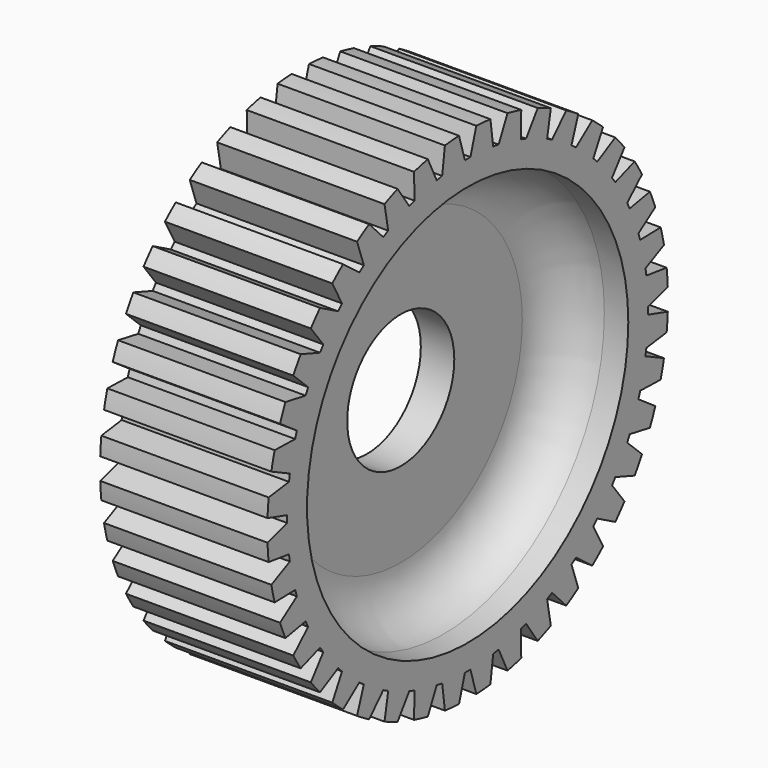
from build123d import *

# Parameters (mm, degrees)
F3_DEPTH = 25.4
F4_COUNT = 40


with BuildPart() as f1:
    # F0 (on Top) → F1 (revolve)
    with BuildSketch(Plane.XY):
        Polygon((-2.54, 15.24), (0, 15.24), (3.2612350769, 15.24), (5.08, 15.24), (5.08, 19.0043579787), (-7.62, 19.0043579787), (-7.62, 15.24), (-5.8012350769, 15.24), align=None)
        with BuildLine():
            ThreePointArc((-5.8012350769, 15.24), (-3.4715579779, 14.0044093291), (-2.54, 11.5373707349))
            Line((-2.54, 11.5373707349), (-2.54, 15.24))
            Line((-2.54, 15.24), (-5.8012350769, 15.24))
        make_face()
        Polygon((-2.54, 5.08), (0, 5.08), (0, 11.5373707349), (0, 15.24), (-2.54, 15.24), (-2.54, 11.5373707349), align=None)
        with BuildLine():
            Line((0, 15.24), (0, 11.5373707349))
            ThreePointArc((0, 11.5373707349), (0.9315579779, 14.0044093291), (3.2612350769, 15.24))
            Line((3.2612350769, 15.24), (0, 15.24))
        make_face()
    revolve(axis=Axis((-6.35, 0, 0), (-1, 0, 0)))

    # F2 (on face) → F3 (cut)
    with BuildSketch(Plane.YZ.offset(5.08)):
        with BuildLine():
            Line((0, 17.1221789894), (0, 19.0043579787))
            ThreePointArc((0, 19.0043579787), (-0.4103514296, 18.9999272074), (-0.8205115163, 18.9866369596))
            Line((-0.8205115163, 18.9866369596), (-0.2629475493, 17.1221789894))
            Line((-0.2629475493, 17.1221789894), (0, 17.1221789894))
        make_face()
        with BuildLine():
            ThreePointArc((0.8205115163, 18.9866369596), (0.4103514296, 18.9999272074), (0, 19.0043579787))
            Line((0, 19.0043579787), (0, 17.1221789894))
            Line((0, 17.1221789894), (0.2629475493, 17.1221789894))
            Line((0.2629475493, 17.1221789894), (0.8205115163, 18.9866369596))
        make_face()
    f3 = extrude(amount=-F3_DEPTH, mode=Mode.SUBTRACT)

    # F4: F3 ×40 about axis
    f4_axis = Axis((0, 0, 0), (-1, 0, 0))
    for i in range(1, F4_COUNT):
        add(f3.rotate(f4_axis, i * 360 / F4_COUNT), mode=Mode.SUBTRACT)


solid = f1.part
